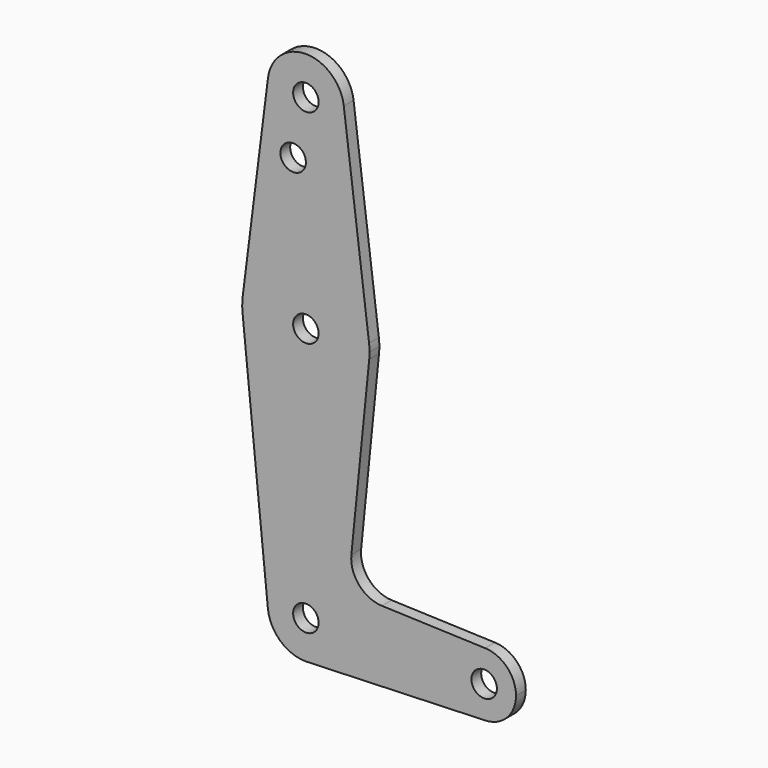
from build123d import *

# Parameters (mm, degrees)
F0_R     = 3.175
F1_DEPTH = 3.048


with BuildPart() as f1:
    # F0 (on Front) → F1 (new body)
    with BuildSketch(Plane.XZ):
        with BuildLine():
            ThreePointArc((9.450293, 115.490625), (9.506305, 114.896483), (9.525, 114.3))
            ThreePointArc((9.525, 114.3), (-0.596483, 104.793695), (-9.450293, 115.490625))
            Line((-9.450293, 115.490625), (-15.750488, 65.484375))
            ThreePointArc((-15.750488, 65.484375), (0, 79.375), (15.750488, 65.484375))
            Line((15.750488, 65.484375), (9.450293, 115.490625))
        make_face()
        with Locations((-3.175, 100.0252)):
            Circle(F0_R, mode=Mode.SUBTRACT)
        with BuildLine():
            ThreePointArc((15.875, 63.5), (15.843841, 64.494139), (15.750488, 65.484375))
            ThreePointArc((15.750488, 65.484375), (0, 79.375), (-15.750488, 65.484375))
            ThreePointArc((-15.750488, 65.484375), (-15.873744, 63.699705), (-15.795426, 61.9125))
            ThreePointArc((-15.795426, 61.9125), (0, 47.625), (15.795426, 61.9125))
            ThreePointArc((15.795426, 61.9125), (15.855094, 62.705253), (15.875, 63.5))
        make_face()
        with Locations((0, 63.5)):
            Circle(F0_R, mode=Mode.SUBTRACT)
        with BuildLine():
            ThreePointArc((-9.450293, 115.490625), (-0.596483, 104.793695), (9.525, 114.3))
            ThreePointArc((9.525, 114.3), (9.506305, 114.896483), (9.450293, 115.490625))
            ThreePointArc((9.450293, 115.490625), (0, 123.825), (-9.450293, 115.490625))
        make_face()
        with Locations((0, 114.3)):
            Circle(F0_R, mode=Mode.SUBTRACT)
        with BuildLine():
            ThreePointArc((15.795426, 61.9125), (0, 47.625), (-15.795426, 61.9125))
            Line((-15.795426, 61.9125), (-9.477255, -0.9525))
            ThreePointArc((-9.477255, -0.9525), (-0.476848, 9.513056), (9.525, 0))
            ThreePointArc((9.525, 0), (6.970557, -6.491299), (0.677344, -9.500886))
            Line((0.677344, -9.500886), (44.732405, -7.932475))
            ThreePointArc((44.732405, -7.932475), (36.5125, 0.000539), (44.733482, 7.932436))
            Line((44.733482, 7.932436), (18.9676, 8.853234))
            ThreePointArc((18.9676, 8.853234), (13.2612, 11.571359), (11.341187, 17.593382))
            Line((11.341187, 17.593382), (15.795426, 61.9125))
        make_face()
        with BuildLine():
            ThreePointArc((9.525, 0), (-0.476848, 9.513056), (-9.477255, -0.9525))
            ThreePointArc((-9.477255, -0.9525), (-6.389564, -7.063929), (0, -9.525))
            Line((0, -9.525), (0.677344, -9.500886))
            ThreePointArc((0.677344, -9.500886), (6.970557, -6.491299), (9.525, 0))
        make_face()
        Circle(F0_R, mode=Mode.SUBTRACT)
        with BuildLine():
            ThreePointArc((52.3875, 0), (50.162007, 5.511523), (44.733482, 7.932436))
            ThreePointArc((44.733482, 7.932436), (36.5125, 0.000539), (44.732405, -7.932475))
            ThreePointArc((44.732405, -7.932475), (50.161633, -5.51191), (52.3875, 0))
        make_face()
        with Locations((44.45, 0)):
            Circle(F0_R, mode=Mode.SUBTRACT)
    extrude(amount=F1_DEPTH)


solid = f1.part
